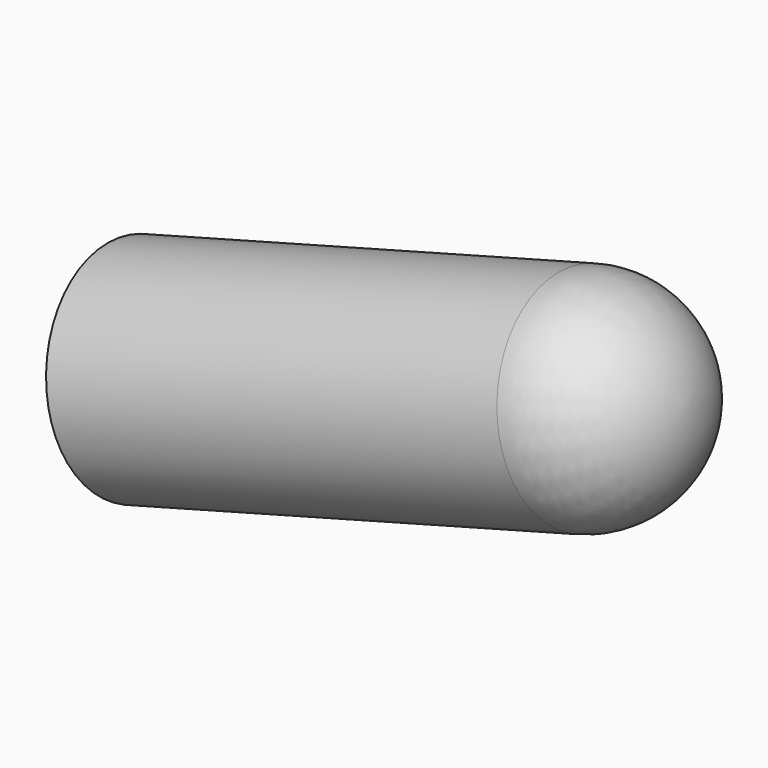
from build123d import *

# Parameters (mm, degrees)
F3_ANGLE = -15


with BuildPart() as f1:
    # F0 (on Front) → F1 (revolve)
    with BuildSketch(Plane.XZ):
        with BuildLine():
            Line((4.591048, 2.5), (-6.408952, 2.5))
            Line((-6.408952, 2.5), (-6.408952, 0))
            Line((-6.408952, 0), (7.091048, 0))
            ThreePointArc((7.091048, 0), (6.358815, 1.767767), (4.591048, 2.5))
        make_face()
    revolve(axis=Axis((-0.272727, 0, 0), (1, 0, 0)))


with BuildPart() as f1_1:
    # F3: moved
    add(f1.part.rotate(Axis((0, 0.420559, 0), (0, 1, 0)), F3_ANGLE))


solid = f1_1.part
